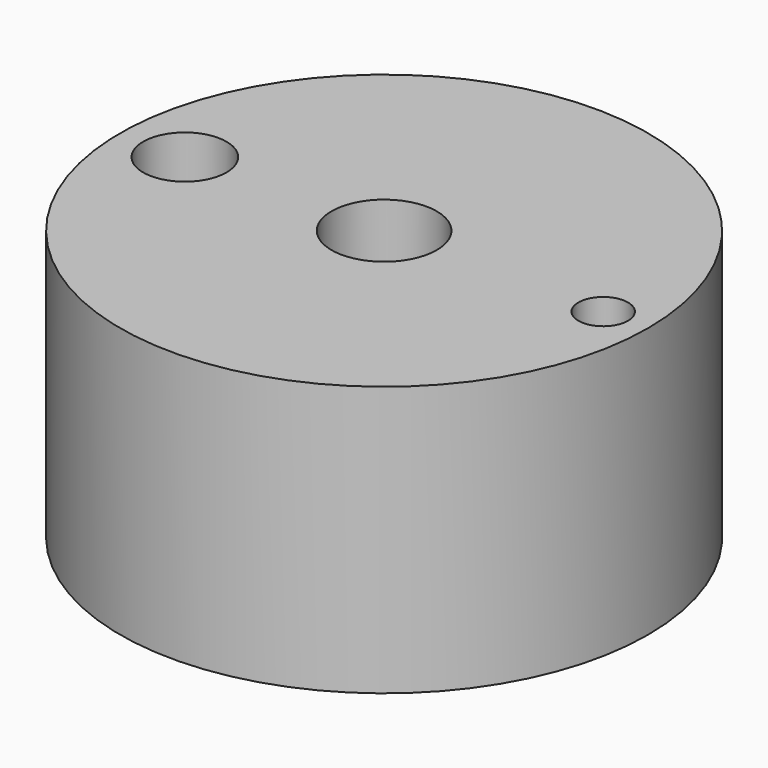
from build123d import *

# Parameters (mm, degrees)
F0_R     = 16.891
F0_R_2   = 3.3655
F1_DEPTH = 17.272
F2_R     = 1.5875
F2_R_2   = 2.667
F3_DEPTH = 25.4
F5_DEPTH = 5.08


with BuildPart() as f1:
    # F0 (on Top) → F1 (new body)
    with BuildSketch(Plane.XY):
        Circle(F0_R)
        Circle(F0_R_2, mode=Mode.SUBTRACT)
    extrude(amount=F1_DEPTH)

    # F2 (on face) → F3 (cut)
    with BuildSketch(Plane.XY.offset(17.272)):
        with Locations((14.0208, 0)):
            Circle(F2_R)
        with Locations((-12.7508, 0)):
            Circle(F2_R_2)
    extrude(amount=-F3_DEPTH, mode=Mode.SUBTRACT)

    # F4 (on face) → F5 (cut)
    with BuildSketch(Plane(origin=(0, 0, 0), x_dir=(1, 0, 0), z_dir=(0, 0, -1))):
        with BuildLine():
            ThreePointArc((0, -9.652), (-9.652, 0), (0, 9.652))
            ThreePointArc((0, 9.652), (3.740685, 12.7762), (0, 15.9004))
            ThreePointArc((0, 15.9004), (-15.9004, 0), (0, -15.9004))
            ThreePointArc((0, -15.9004), (2.609315, -12.7762), (0, -9.652))
        make_face()
    extrude(amount=-F5_DEPTH, mode=Mode.SUBTRACT)


solid = f1.part
